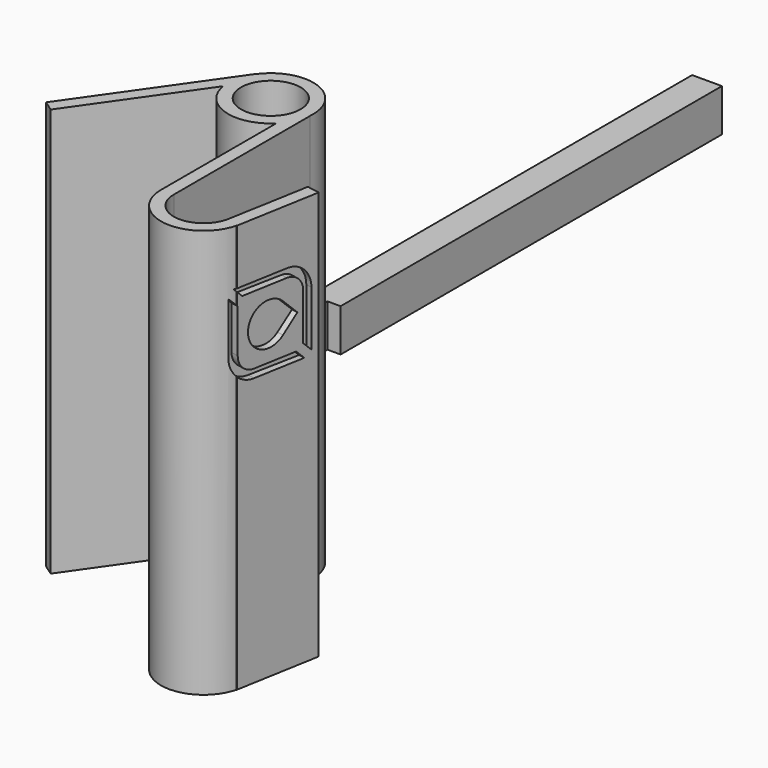
from build123d import *

# Parameters (mm, degrees)
BOX011_W                  = 10
BOX011_H                  = 25
BOX011_DEPTH              = 13
BOX010_W                  = 7
BOX010_H                  = 130
BOX010_DEPTH              = 10
BOX006_W                  = 5
BOX006_H                  = 5
BOX006_DEPTH              = 3
BOX006_PLACEMENT_ANGLE    = 45
CYLINDER005_R             = 5
CYLINDER005_DEPTH         = 3
BOX008_W                  = 34
BOX008_H                  = 2
BOX008_DEPTH              = 10
BOX008_PLACEMENT_ANGLE    = 45
BOX007_W                  = 16
BOX007_H                  = 16
BOX007_DEPTH              = 6
FILLET_R                  = 4
FILLET001_R               = 4
BOX009_W                  = 20
BOX009_H                  = 20
BOX009_DEPTH              = 3
FILLET002_R               = 6
FILLET003_R               = 6
FUSION005_ROLL_ANGLE      = -123.111634
FUSION005_PITCH_ANGLE     = -89.999828
FUSION005_PLACEMENT_ANGLE = -67.888254
BOX005_W                  = 12
BOX005_H                  = 10
BOX005_DEPTH              = 100
BOX005_PLACEMENT_ANGLE    = -9
BOX004_W                  = 3
BOX004_H                  = 20
BOX004_DEPTH              = 96
BOX004_PLACEMENT_ANGLE    = -10
BOX_W                     = 3
BOX_H                     = 40
BOX_DEPTH                 = 96
BOX012_W                  = 4.4
BOX012_H                  = 25
BOX012_DEPTH              = 10.4
CYLINDER003_R             = 7
CYLINDER003_DEPTH         = 100
CYLINDER004_R             = 7
CYLINDER004_DEPTH         = 102
BOX001_W                  = 3
BOX001_H                  = 40
BOX001_DEPTH              = 96
BOX001_PLACEMENT_ANGLE    = -35
CYLINDER_R                = 10
CYLINDER_DEPTH            = 96
BOX002_W                  = 3
BOX002_H                  = 40
BOX002_DEPTH              = 96
CYLINDER002_R             = 10
CYLINDER002_DEPTH         = 96
BOX003_W                  = 3
BOX003_H                  = 20
BOX003_DEPTH              = 96
BOX003_PLACEMENT_ANGLE    = -10


with BuildPart() as cube011:
    # Box011 → Box011 (new body)
    with BuildSketch(Plane(origin=(0.9, 25, 41), x_dir=(1, 0, 0), z_dir=(0, 0, 1))):
        with Locations((5, 12.5)):
            Rectangle(BOX011_W, BOX011_H)
    extrude(amount=BOX011_DEPTH)


with BuildPart() as stick:
    # Box010 → Box010 (new body)
    with BuildSketch(Plane(origin=(-3, 32, 43), x_dir=(1, 0, 0), z_dir=(0, 0, 1))):
        with Locations((3.5, 65)):
            Rectangle(BOX010_W, BOX010_H)
    extrude(amount=BOX010_DEPTH)

    # Cut008: cut Cube011
    add(cube011.part, mode=Mode.SUBTRACT)


with BuildPart() as cube006:
    # Box006 → Box006 (new body)
    with BuildSketch(Plane.XY):
        with Locations((2.5, 2.5)):
            Rectangle(BOX006_W, BOX006_H)
    extrude(amount=BOX006_DEPTH)


with BuildPart() as cube006_1:
    # Box006 placement: moved
    add(cube006.part.moved(Location((0, -7.071, 0))).rotate(Axis((0, -7.071, 0), (0, 0, 1)), BOX006_PLACEMENT_ANGLE))


with BuildPart() as fusion004:
    # Cylinder005 → Cylinder005 (new body)
    with BuildSketch(Plane.XY):
        Circle(CYLINDER005_R)
    extrude(amount=CYLINDER005_DEPTH)

    # Fusion004: union Cube006
    add(cube006_1.part)


with BuildPart() as cube008:
    # Box008 → Box008 (new body)
    with BuildSketch(Plane.XY):
        with Locations((17, 1)):
            Rectangle(BOX008_W, BOX008_H)
    extrude(amount=BOX008_DEPTH)


with BuildPart() as cube008_1:
    # Box008 placement: moved
    add(cube008.part.moved(Location((-10.4, -12, -3))).rotate(Axis((-10.4, -12, -3), (0, 0, 1)), BOX008_PLACEMENT_ANGLE))


with BuildPart() as fillet001:
    # Box007 → Box007 (new body)
    with BuildSketch(Plane(origin=(-8, -8.5, -1), x_dir=(1, 0, 0), z_dir=(0, 0, 1))):
        with Locations((8, 8)):
            Rectangle(BOX007_W, BOX007_H)
    extrude(amount=BOX007_DEPTH)

    # Fillet
    fillet_edges = [fillet001.edges().sort_by_distance(p)[0] for p in [
        (-8, 7.5, 2),
    ]]
    fillet(fillet_edges, radius=FILLET_R)

    # Fillet001
    fillet001_edges = [fillet001.edges().sort_by_distance(p)[0] for p in [
        (8, -8.5, 2),
    ]]
    fillet(fillet001_edges, radius=FILLET001_R)


with BuildPart() as obj1:
    # Box009 → Box009 (new body)
    with BuildSketch(Plane(origin=(-10, -10.5, 0), x_dir=(1, 0, 0), z_dir=(0, 0, 1))):
        with Locations((10, 10)):
            Rectangle(BOX009_W, BOX009_H)
    extrude(amount=BOX009_DEPTH)

    # Fillet002
    fillet002_edges = [obj1.edges().sort_by_distance(p)[0] for p in [
        (10, -10.5, 1.5),
    ]]
    fillet(fillet002_edges, radius=FILLET002_R)

    # Fillet003
    fillet003_edges = [obj1.edges().sort_by_distance(p)[0] for p in [
        (-10, 9.5, 1.5),
    ]]
    fillet(fillet003_edges, radius=FILLET003_R)

    # Cut005: cut Fillet001
    add(fillet001.part, mode=Mode.SUBTRACT)

    # Cut006: cut Cube008
    add(cube008_1.part, mode=Mode.SUBTRACT)

    # Fusion005: union Fusion004
    add(fusion004.part)


with BuildPart() as obj1_1:
    # Fusion005 roll: moved
    add(obj1.part.rotate(Axis((0, 0, 0), (1, 0, 0)), FUSION005_ROLL_ANGLE))


with BuildPart() as obj1_2:
    # Fusion005 pitch: moved
    add(obj1_1.part.rotate(Axis((0, 0, 0), (0, 1, 0)), FUSION005_PITCH_ANGLE))


with BuildPart() as obj1_3:
    # Fusion005 placement: moved
    add(obj1_2.part.moved(Location((20.5, 6.49441, 73))).rotate(Axis((20.5, 6.49441, 73), (0, 0, 1)), FUSION005_PLACEMENT_ANGLE))


with BuildPart() as cube:
    # Box005 → Box005 (new body)
    with BuildSketch(Plane.XY):
        with Locations((6, 5)):
            Rectangle(BOX005_W, BOX005_H)
    extrude(amount=BOX005_DEPTH)


with BuildPart() as cube_1:
    # Box005 placement: moved
    add(cube.part.moved(Location((5, 6, -1))).rotate(Axis((5, 6, -1), (0, 0, 1)), BOX005_PLACEMENT_ANGLE))


with BuildPart() as cube005:
    # Box004 → Box004 (new body)
    with BuildSketch(Plane.XY):
        with Locations((1.5, 10)):
            Rectangle(BOX004_W, BOX004_H)
    extrude(amount=BOX004_DEPTH)


with BuildPart() as cube005_1:
    # Box004 placement: moved
    add(cube005.part.moved(Location((14.8, -0.5, 0))).rotate(Axis((14.8, -0.5, 0), (0, 0, 1)), BOX004_PLACEMENT_ANGLE))


with BuildPart() as cube004:
    # Box → Box (new body)
    with BuildSketch(Plane(origin=(4, 1, 0), x_dir=(1, 0, 0), z_dir=(0, 0, 1))):
        with Locations((1.5, 20)):
            Rectangle(BOX_W, BOX_H)
    extrude(amount=BOX_DEPTH)


with BuildPart() as cube012:
    # Box012 → Box012 (new body)
    with BuildSketch(Plane(origin=(-3.2, 30, 42.8), x_dir=(1, 0, 0), z_dir=(0, 0, 1))):
        with Locations((2.2, 12.5)):
            Rectangle(BOX012_W, BOX012_H)
    extrude(amount=BOX012_DEPTH)


with BuildPart() as cylinder003:
    # Cylinder003 → Cylinder003 (new body)
    with BuildSketch(Plane(origin=(-6, 42, -2), x_dir=(1, 0, 0), z_dir=(0, 0, 1))):
        Circle(CYLINDER003_R)
    extrude(amount=CYLINDER003_DEPTH)


with BuildPart() as cylinder004:
    # Cylinder004 → Cylinder004 (new body)
    with BuildSketch(Plane(origin=(11, 1, -2), x_dir=(1, 0, 0), z_dir=(0, 0, 1))):
        Circle(CYLINDER004_R)
    extrude(amount=CYLINDER004_DEPTH)


with BuildPart() as cube001:
    # Box001 → Box001 (new body)
    with BuildSketch(Plane.XY):
        with Locations((1.5, 20)):
            Rectangle(BOX001_W, BOX001_H)
    extrude(amount=BOX001_DEPTH)


with BuildPart() as cube001_1:
    # Box001 placement: moved
    add(cube001.part.moved(Location((-37.2, 15, 0))).rotate(Axis((-37.2, 15, 0), (0, 0, 1)), BOX001_PLACEMENT_ANGLE))


with BuildPart() as fusion:
    # Cylinder → Cylinder (new body)
    with BuildSketch(Plane(origin=(-6, 42, 0), x_dir=(1, 0, 0), z_dir=(0, 0, 1))):
        Circle(CYLINDER_R)
    extrude(amount=CYLINDER_DEPTH)

    # Fusion: union Cube001
    add(cube001_1.part)


with BuildPart() as fusion006:
    # Box002 → Box002 (new body)
    with BuildSketch(Plane(origin=(1, 1, 0), x_dir=(1, 0, 0), z_dir=(0, 0, 1))):
        with Locations((1.5, 20)):
            Rectangle(BOX002_W, BOX002_H)
    extrude(amount=BOX002_DEPTH)

    # Fusion006: union Fusion
    add(fusion.part)


with BuildPart() as cut011:
    # Cylinder002 → Cylinder002 (new body)
    with BuildSketch(Plane(origin=(11, 1, 0), x_dir=(1, 0, 0), z_dir=(0, 0, 1))):
        Circle(CYLINDER002_R)
    extrude(amount=CYLINDER002_DEPTH)

    # Fusion007: union Fusion006
    add(fusion006.part)

    # Cut: cut Cylinder004
    add(cylinder004.part, mode=Mode.SUBTRACT)

    # Cut009: cut Cylinder003
    add(cylinder003.part, mode=Mode.SUBTRACT)

    # Cut010: cut Cube012
    add(cube012.part, mode=Mode.SUBTRACT)

    # Cut011: cut Cube004
    add(cube004.part, mode=Mode.SUBTRACT)


with BuildPart() as holder:
    # Box003 → Box003 (new body)
    with BuildSketch(Plane.XY):
        with Locations((1.5, 10)):
            Rectangle(BOX003_W, BOX003_H)
    extrude(amount=BOX003_DEPTH)


with BuildPart() as holder_1:
    # Box003 placement: moved
    add(holder.part.moved(Location((17.8, -0.9, 0))).rotate(Axis((17.8, -0.9, 0), (0, 0, 1)), BOX003_PLACEMENT_ANGLE))

    # Fusion008: union Cut011
    add(cut011.part)

    # Cut012: cut Cube005
    add(cube005_1.part, mode=Mode.SUBTRACT)

    # Cut013: cut Cube
    add(cube_1.part, mode=Mode.SUBTRACT)

    # Cut014: cut obj1
    add(obj1_3.part, mode=Mode.SUBTRACT)


solid = Compound([stick.part, holder_1.part])
